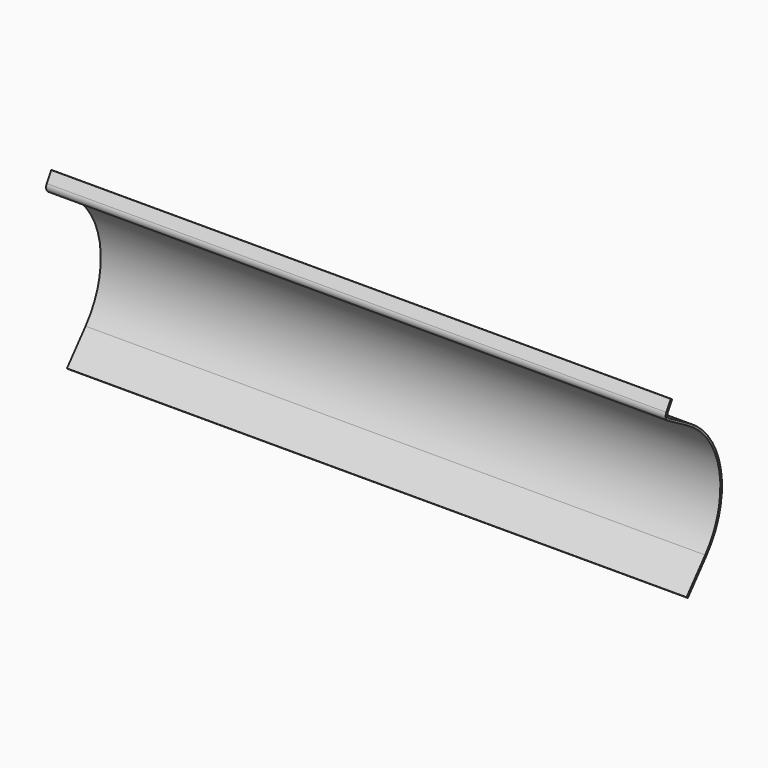
from build123d import *

# Parameters (mm, degrees)
F1_DEPTH = 1524


with BuildPart() as f1:
    # F0 (on Right) → F1 (new body)
    with BuildSketch(Plane.YZ):
        with BuildLine():
            Line((-3.830222, 3.213938), (0, 0))
            Line((0, 0), (57.163184, 68.12443))
            ThreePointArc((57.163184, 68.12443), (102.045095, 235.626002), (2.580983, 377.675475))
            Line((2.580983, 377.675475), (-58.040795, 412.675475))
            ThreePointArc((-58.040795, 412.675475), (-62.700053, 418.747538), (-61.701049, 426.335729))
            Line((-61.701049, 426.335729), (-48.038476, 450))
            Line((-48.038476, 450), (-52.368603, 452.5))
            Line((-52.368603, 452.5), (-66.031176, 428.835729))
            ThreePointArc((-66.031176, 428.835729), (-67.507418, 417.371282), (-60.392876, 408.261062))
            Line((-60.392876, 408.261062), (0.081466, 373.346184))
            ThreePointArc((0.081466, 373.346184), (97.122196, 234.756858), (53.332304, 71.336081))
            Line((53.332304, 71.336081), (-3.830222, 3.213938))
        make_face()
    extrude(amount=F1_DEPTH)


solid = f1.part
